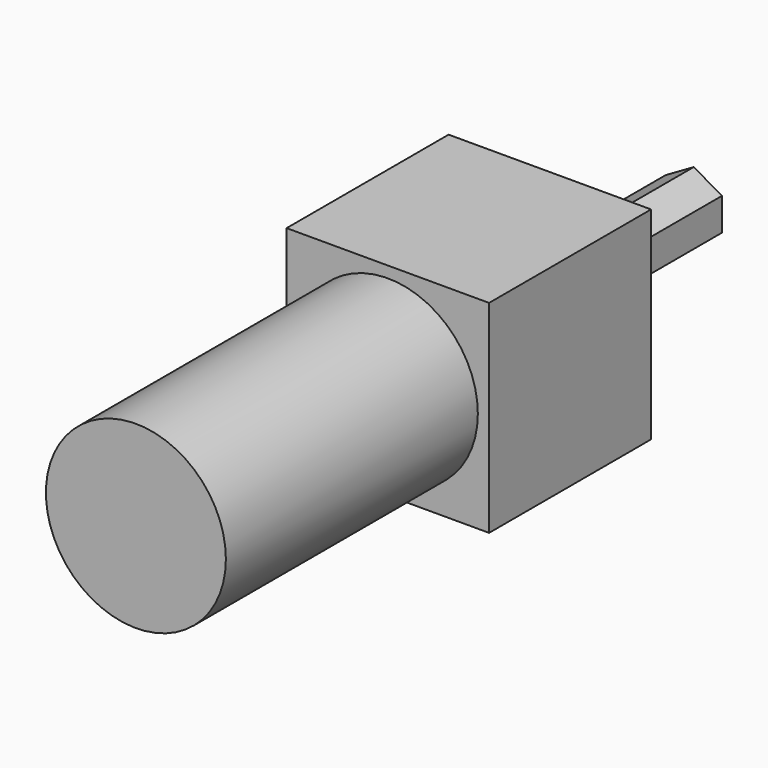
from build123d import *

# Parameters (mm, degrees)
F0_W     = 45.72
F0_H     = 45.72
F0_R     = 20.32
F1_DEPTH = 45.72
F2_DEPTH = 71.12
F4_DEPTH = 40.64


with BuildPart() as f1:
    # F0 (on Front) → F1 (new body)
    with BuildSketch(Plane.XZ):
        with Locations((22.86, 22.86)):
            Rectangle(F0_W, F0_H)
        with Locations((22.86, 22.86)):
            Circle(F0_R, mode=Mode.SUBTRACT)
        with Locations((22.86, 22.86)):
            Circle(F0_R)
    extrude(amount=-F1_DEPTH)

    # F0 (on Front) → F2 (join)
    with BuildSketch(Plane.XZ):
        with Locations((22.86, 22.86)):
            Circle(F0_R)
    extrude(amount=F2_DEPTH)

    # F3 (on face) → F4 (join)
    with BuildSketch(Plane(origin=(0, 45.72, 0), x_dir=(-1, 0, 0), z_dir=(0, 1, 0))):
        Polygon((-16.51, 19.193826), (-16.51, 26.526174), (-22.86, 30.192348), (-29.21, 26.526174), (-29.21, 19.193826), (-22.86, 15.527652), align=None)
    extrude(amount=F4_DEPTH)


solid = f1.part
